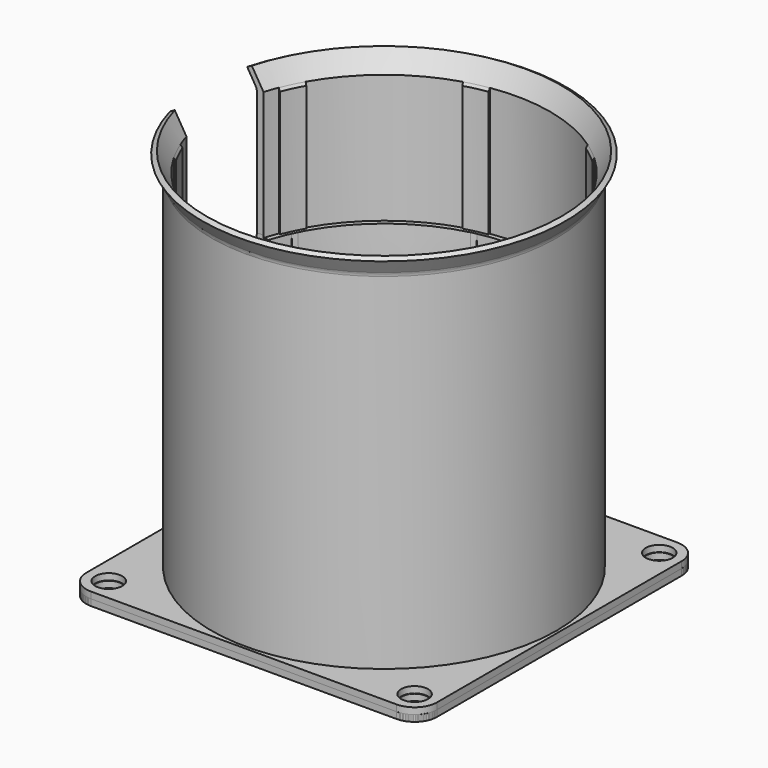
from build123d import *

# Parameters (mm, degrees)
PAD_DEPTH                         = 2
PAD_MIRRORED_2_DEPTH              = 2
POLARPATTERN_COUNT                = 4
REVOLUTION002_ANGLE               = -4
REVOLUTION002_MIRRORED001_2_ANGLE = 4
POLARPATTERN001_COUNT             = 7
REVOLUTION003_ANGLE               = -0.95493
REVOLUTION003_MIRRORED006_2_ANGLE = 0.95493
POLARPATTERN002_COUNT             = 7
POCKET_DEPTH                      = 56.636641
SKETCH006_R                       = 4.2
PAD001_DEPTH                      = 2
SKETCH006_MIRRORED002_2_R         = 4.2
PAD001_MIRRORED002_2_DEPTH        = 2
SKETCH007_R                       = 4.2
PAD002_DEPTH                      = 2
SKETCH007_MIRRORED004_2_R         = 4.2
PAD002_MIRRORED004_2_DEPTH        = 2


with BuildPart() as body:
    # Sketch → Pad (new body)
    with BuildSketch(Plane.XY):
        with BuildLine():
            ThreePointArc((44.796573, 44.796573), (50.453427, 44.796573), (50.453427, 50.453427))
            Line((50.453427, 50.453427), (52.574747, 52.574747))
            ThreePointArc((54.625, 47.625), (54.092157, 50.303784), (52.574747, 52.574747))
            Line((54.625, 47.625), (54.625, 0))
            Line((50, 0), (54.625, 0))
            ThreePointArc((50, 0), (46.193977, 19.134172), (35.355339, 35.355339))
            Line((35.355339, 35.355339), (44.796573, 44.796573))
        make_face()
    pad = extrude(amount=-PAD_DEPTH)

    # Sketch001 → Revolution (revolve)
    with BuildSketch(Plane.XZ):
        with BuildLine():
            Line((50, 0), (50, 57.280804))
            Line((50, 57.280804), (50.227703, 70))
            Line((50.227703, 70), (51.75, 70))
            Line((51.75, 70), (51.75, 110))
            Line((51.75, 110), (55.25, 116.062178))
            Line((56.635641, 115.262178), (55.25, 116.062178))
            Line((54.084944, 110.844242), (56.635641, 115.262178))
            ThreePointArc((54.084944, 110.844242), (53.835187, 110.241284), (53.75, 109.594229))
            Line((53.75, 109.594229), (53.75, 0))
            Line((53.75, 0), (50, 0))
        make_face()
    revolve(axis=Axis((0, 0, 0), (0, 0, 1)))

    # Sketch Mirrored 2 → Pad Mirrored 2 (add)
    with BuildSketch(Plane(origin=(0, 0, 0), x_dir=(1, 0, 0), z_dir=(0, 0, -1))):
        with BuildLine():
            ThreePointArc((44.796573, 44.796573), (50.453427, 44.796573), (50.453427, 50.453427))
            Line((50.453427, 50.453427), (52.574747, 52.574747))
            ThreePointArc((54.625, 47.625), (54.092157, 50.303784), (52.574747, 52.574747))
            Line((54.625, 47.625), (54.625, 0))
            Line((50, 0), (54.625, 0))
            ThreePointArc((50, 0), (46.193977, 19.134172), (35.355339, 35.355339))
            Line((35.355339, 35.355339), (44.796573, 44.796573))
        make_face()
    pad_mirrored_2 = extrude(amount=PAD_MIRRORED_2_DEPTH)

    # PolarPattern: Pad, Pad Mirrored 2 ×4 about axis
    polarpattern_axis = Axis((0, 0, 0), (0, 0, 1))
    for i in range(1, POLARPATTERN_COUNT):
        add(pad.rotate(polarpattern_axis, i * 360 / POLARPATTERN_COUNT))
        add(pad_mirrored_2.rotate(polarpattern_axis, i * 360 / POLARPATTERN_COUNT))

    # Sketch005 → Revolution002 (revolve)
    with BuildSketch(Plane.XZ):
        Polygon((51.25, 70), (51.25, 109.133975), (51.75, 110), (51.75, 70), align=None)
    revolution002 = revolve(axis=Axis((0, 0, 0), (0, 0, 1)), revolution_arc=REVOLUTION002_ANGLE)

    # Sketch005 Mirrored001 2 → Revolution002 Mirrored001 2 (revolve)
    with BuildSketch(Plane.XZ):
        Polygon((51.25, 70), (51.25, 109.133975), (51.75, 110), (51.75, 70), align=None)
    revolution002_mirrored001_2 = revolve(axis=Axis((0, 0, 0), (0, 0, 1)), revolution_arc=REVOLUTION002_MIRRORED001_2_ANGLE)

    # PolarPattern001: Revolution002, Revolution002 Mirrored001 2 ×7 about axis
    polarpattern001_axis = Axis((0, 0, 0), (0, 0, 1))
    for i in range(1, POLARPATTERN001_COUNT):
        add(revolution002.rotate(polarpattern001_axis, i * 360 / POLARPATTERN001_COUNT))
        add(revolution002_mirrored001_2.rotate(polarpattern001_axis, i * 360 / POLARPATTERN001_COUNT))

    # Sketch009 → Revolution003 (revolve)
    with BuildSketch(Plane.XZ):
        Polygon((50.228654, 69.997945), (45, -2), (50, -2), (50, 0), (50, 57.28), align=None)
    revolution003 = revolve(axis=Axis((0, 0, 0), (0, 0, 1)), revolution_arc=REVOLUTION003_ANGLE)

    # Sketch009 Mirrored006 2 → Revolution003 Mirrored006 2 (revolve)
    with BuildSketch(Plane.XZ):
        Polygon((50.228654, 69.997945), (45, -2), (50, -2), (50, 0), (50, 57.28), align=None)
    revolution003_mirrored006_2 = revolve(axis=Axis((0, 0, 0), (0, 0, 1)), revolution_arc=REVOLUTION003_MIRRORED006_2_ANGLE)

    # PolarPattern002: Revolution003, Revolution003 Mirrored006 2 ×7 about axis
    polarpattern002_axis = Axis((0, 0, 0), (0, 0, 1))
    for i in range(1, POLARPATTERN002_COUNT):
        add(revolution003.rotate(polarpattern002_axis, i * 360 / POLARPATTERN002_COUNT))
        add(revolution003_mirrored006_2.rotate(polarpattern002_axis, i * 360 / POLARPATTERN002_COUNT))

    # Sketch010 → Pocket (cut, through all)
    with BuildSketch(Plane.YZ):
        with BuildLine():
            ThreePointArc((-15, 70.747213), (0, 55.747213), (15, 70.747213))
            Line((15, 141.776619), (15, 70.747213))
            Line((-15, 141.776619), (15, 141.776619))
            Line((-15, 70.747213), (-15, 141.776619))
        make_face()
    extrude(amount=-POCKET_DEPTH, mode=Mode.SUBTRACT)


with BuildPart() as body001:
    # Sketch006 → Pad001 (new body)
    with BuildSketch(Plane.XY):
        with BuildLine():
            Line((-40, 0), (-40, 30))
            ThreePointArc((-17.058722, 47), (-29.768682, 40.172448), (-40, 30))
            Line((0, 47), (-17.058722, 47))
            Line((0, 50), (0, 47))
            Line((0, 50), (0, 54.625))
            Line((-47.624978, 54.625), (0, 54.625))
            ThreePointArc((-47.624978, 54.625), (-52.574748, 52.574747), (-54.625, 47.624978))
            Line((-54.625, 47.624978), (-54.625, 0))
            Line((-54.625, 0), (-50, 0))
            Line((-40, 0), (-50, 0))
        make_face()
        with Locations((-47.625, 47.625)):
            Circle(SKETCH006_R, mode=Mode.SUBTRACT)
    pad001 = extrude(amount=-PAD001_DEPTH)

    # Sketch006 Mirrored002 2 → Pad001 Mirrored002 2 (add)
    with BuildSketch(Plane(origin=(0, 0, 0), x_dir=(-1, 0, 0), z_dir=(0, 0, -1))):
        with BuildLine():
            Line((-40, 0), (-40, 30))
            ThreePointArc((-17.058722, 47), (-29.768682, 40.172448), (-40, 30))
            Line((0, 47), (-17.058722, 47))
            Line((0, 50), (0, 47))
            Line((0, 50), (0, 54.625))
            Line((-47.624978, 54.625), (0, 54.625))
            ThreePointArc((-47.624978, 54.625), (-52.574748, 52.574747), (-54.625, 47.624978))
            Line((-54.625, 47.624978), (-54.625, 0))
            Line((-54.625, 0), (-50, 0))
            Line((-40, 0), (-50, 0))
        make_face()
        with Locations((-47.625, 47.625)):
            Circle(SKETCH006_MIRRORED002_2_R, mode=Mode.SUBTRACT)
    pad001_mirrored002_2 = extrude(amount=PAD001_MIRRORED002_2_DEPTH)

    # Mirrored003: Pad001, Pad001 Mirrored002 2 across Sketch006 H_Axis
    add(pad001.mirror(Plane.ZX))
    add(pad001_mirrored002_2.mirror(Plane.ZX))


with BuildPart() as body002:
    # Sketch007 → Pad002 (new body)
    with BuildSketch(Plane.XY):
        with BuildLine():
            ThreePointArc((32, 38.418745), (29.618836, 40.283055), (27.12932, 42))
            Line((27.12932, 42), (0, 42))
            Line((0, 42), (0, 54.625))
            Line((0, 54.625), (47.625, 54.625))
            ThreePointArc((54.625, 47.625004), (52.574746, 52.574749), (47.625, 54.625))
            Line((54.625, 0), (54.625, 47.625004))
            Line((50, 0), (54.625, 0))
            ThreePointArc((50, 0), (48.73453, 11.177906), (45.002177, 21.79))
            Line((34.5, 21.79), (45.002177, 21.79))
            ThreePointArc((32, 24.290001), (32.732233, 22.522233), (34.5, 21.79))
            Line((32, 24.290001), (32, 38.418745))
        make_face()
        with Locations((47.625, 47.625)):
            Circle(SKETCH007_R, mode=Mode.SUBTRACT)
    pad002 = extrude(amount=PAD002_DEPTH)

    # Sketch007 Mirrored004 2 → Pad002 Mirrored004 2 (add)
    with BuildSketch(Plane(origin=(0, 0, 0), x_dir=(-1, 0, 0), z_dir=(0, 0, -1))):
        with BuildLine():
            ThreePointArc((32, 38.418745), (29.618836, 40.283055), (27.12932, 42))
            Line((27.12932, 42), (0, 42))
            Line((0, 42), (0, 54.625))
            Line((0, 54.625), (47.625, 54.625))
            ThreePointArc((54.625, 47.625004), (52.574746, 52.574749), (47.625, 54.625))
            Line((54.625, 0), (54.625, 47.625004))
            Line((50, 0), (54.625, 0))
            ThreePointArc((50, 0), (48.73453, 11.177906), (45.002177, 21.79))
            Line((34.5, 21.79), (45.002177, 21.79))
            ThreePointArc((32, 24.290001), (32.732233, 22.522233), (34.5, 21.79))
            Line((32, 24.290001), (32, 38.418745))
        make_face()
        with Locations((47.625, 47.625)):
            Circle(SKETCH007_MIRRORED004_2_R, mode=Mode.SUBTRACT)
    pad002_mirrored004_2 = extrude(amount=-PAD002_MIRRORED004_2_DEPTH)

    # Mirrored005: Pad002, Pad002 Mirrored004 2 across Sketch007 H_Axis
    add(pad002.mirror(Plane.ZX))
    add(pad002_mirrored004_2.mirror(Plane.ZX))


solid = Compound([body.part, body001.part, body002.part])
